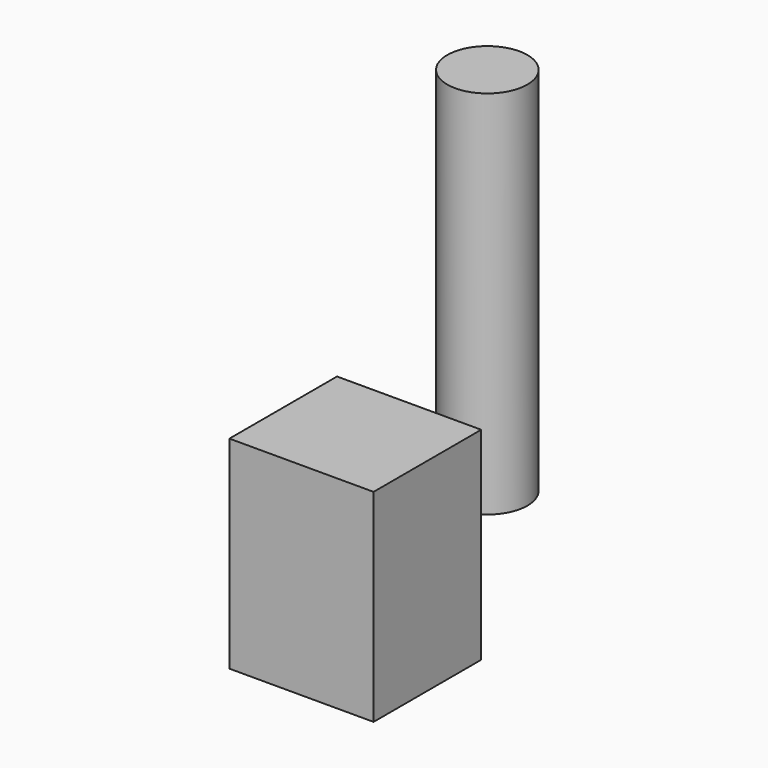
from build123d import *

# Parameters (mm, degrees)
F0_R      = 9.916421
F1_DEPTH  = 54.356
F1_FACE_R = 9.916421
F2_DEPTH  = 37.338
F3_W      = 35.660567
F3_H      = 50.097799
F4_DEPTH  = 33.274


with BuildPart() as f1:
    # F0 (on Top) → F1 (new body)
    with BuildSketch(Plane.XY):
        with Locations((-43.444343, 34.936495)):
            Circle(F0_R)
    extrude(amount=F1_DEPTH)

    # F1_face (on face) → F2 (join)
    with BuildSketch(Plane(origin=(-43.444343, 34.936495, 54.356), x_dir=(1, 0, 0), z_dir=(0, 0, 1))):
        Circle(F1_FACE_R)
    extrude(amount=F2_DEPTH)


with BuildPart() as f4:
    # F3 (on Front) → F4 (new body)
    with BuildSketch(Plane.XZ):
        with Locations((-34.845985, 11.058819)):
            Rectangle(F3_W, F3_H)
    extrude(amount=F4_DEPTH)


solid = Compound([f1.part, f4.part])
